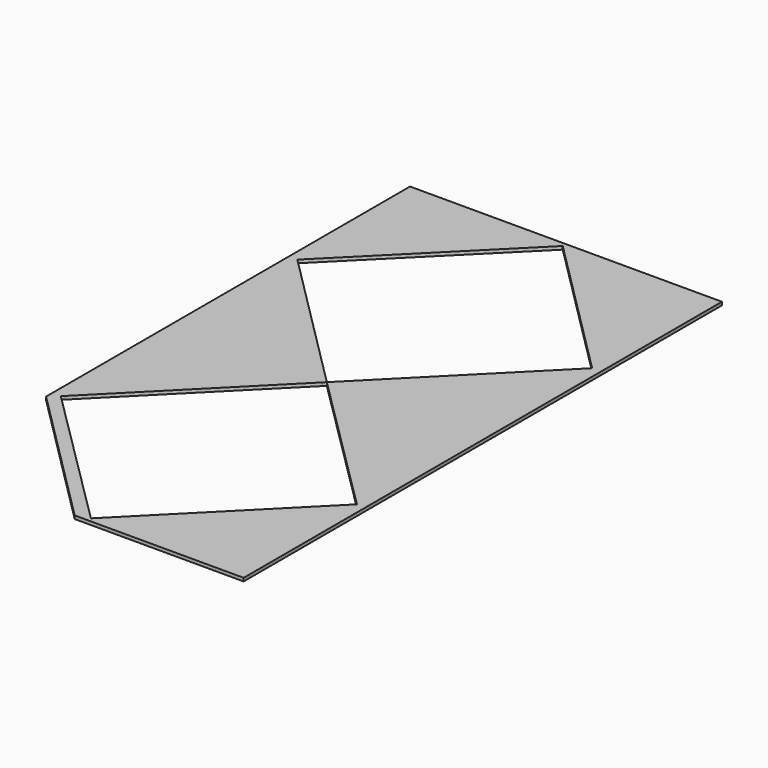
from build123d import *

# Parameters (mm, degrees)
F1_DEPTH = 3.175
F3_DEPTH = 25.4


with BuildPart() as f1:
    # F0 (on Top) → F1 (new body)
    with BuildSketch(Plane.XY):
        Polygon((152.4, -152.4), (152.4, 292.1), (-152.4, 292.1), (-152.4, -152.4), (-12.7, -292.1), (12.7, -292.1), (152.4, -292.1), align=None)
    extrude(amount=F1_DEPTH)

    # F2 (on face) → F3 (cut)
    with BuildSketch(Plane.XY.offset(3.175)):
        with BuildLine():
            Line((-2.245064, 285.916882), (-141.823209, 146.338737))
            ThreePointArc((-141.823209, 146.338737), (-142.753145, 144.093673), (-141.823209, 141.848609))
            Line((-141.823209, 141.848609), (-2.251059, 2.276459))
            ThreePointArc((-2.251059, 2.276459), (-0.001761, 1.346526), (2.245048, 2.282453))
            Line((2.245048, 2.282453), (141.450991, 142.2328))
            ThreePointArc((141.450991, 142.2328), (142.374946, 144.476102), (141.445013, 146.716933))
            Line((141.445013, 146.716933), (2.245064, 285.916882))
            ThreePointArc((2.245064, 285.916882), (0, 286.846818), (-2.245064, 285.916882))
        make_face()
        with BuildLine():
            ThreePointArc((-141.823209, 141.848609), (-142.753145, 144.093673), (-141.823209, 146.338737))
            Line((-141.823209, 146.338737), (-144.068273, 144.093673))
            Line((-144.068273, 144.093673), (-141.823209, 141.848609))
        make_face()
        with BuildLine():
            Line((0, 288.161946), (-2.245064, 285.916882))
            ThreePointArc((-2.245064, 285.916882), (0, 286.846818), (2.245064, 285.916882))
            Line((2.245064, 285.916882), (0, 288.161946))
        make_face()
        with BuildLine():
            ThreePointArc((2.245048, 2.282453), (-0.001761, 1.346526), (-2.251059, 2.276459))
            Line((-2.251059, 2.276459), (0, 0.0254))
            Line((0, 0.0254), (2.245048, 2.282453))
        make_face()
        with BuildLine():
            Line((143.684098, 144.477848), (141.445013, 146.716933))
            ThreePointArc((141.445013, 146.716933), (142.374946, 144.476102), (141.450991, 142.2328))
            Line((141.450991, 142.2328), (143.684098, 144.477848))
        make_face()
        with BuildLine():
            ThreePointArc((-141.827152, -142.609964), (-142.751106, -144.857496), (-141.815195, -147.100076))
            Line((-141.815195, -147.100076), (-2.251035, -285.922869))
            ThreePointArc((-2.251035, -285.922869), (-0.003502, -286.846822), (2.239077, -285.910911))
            Line((2.239077, -285.910911), (141.827152, -145.577382))
            ThreePointArc((141.827152, -145.577382), (142.751106, -143.32985), (141.815195, -141.08727))
            Line((141.815195, -141.08727), (2.251035, -2.264477))
            ThreePointArc((2.251035, -2.264477), (0.003502, -1.340523), (-2.239077, -2.276435))
            Line((-2.239077, -2.276435), (-141.827152, -142.609964))
        make_face()
        with BuildLine():
            Line((-144.066229, -144.860998), (-141.815195, -147.100076))
            ThreePointArc((-141.815195, -147.100076), (-142.751106, -144.857496), (-141.827152, -142.609964))
            Line((-141.827152, -142.609964), (-144.066229, -144.860998))
        make_face()
        with BuildLine():
            ThreePointArc((2.239077, -285.910911), (-0.003502, -286.846822), (-2.251035, -285.922869))
            Line((-2.251035, -285.922869), (0, -288.161946))
            Line((0, -288.161946), (2.239077, -285.910911))
        make_face()
        with BuildLine():
            Line((0, -0.0254), (-2.239077, -2.276435))
            ThreePointArc((-2.239077, -2.276435), (0.003502, -1.340523), (2.251035, -2.264477))
            Line((2.251035, -2.264477), (0, -0.0254))
        make_face()
        with BuildLine():
            ThreePointArc((141.815195, -141.08727), (142.751106, -143.32985), (141.827152, -145.577382))
            Line((141.827152, -145.577382), (144.066229, -143.326347))
            Line((144.066229, -143.326347), (141.815195, -141.08727))
        make_face()
    extrude(amount=-F3_DEPTH, mode=Mode.SUBTRACT)


solid = f1.part
